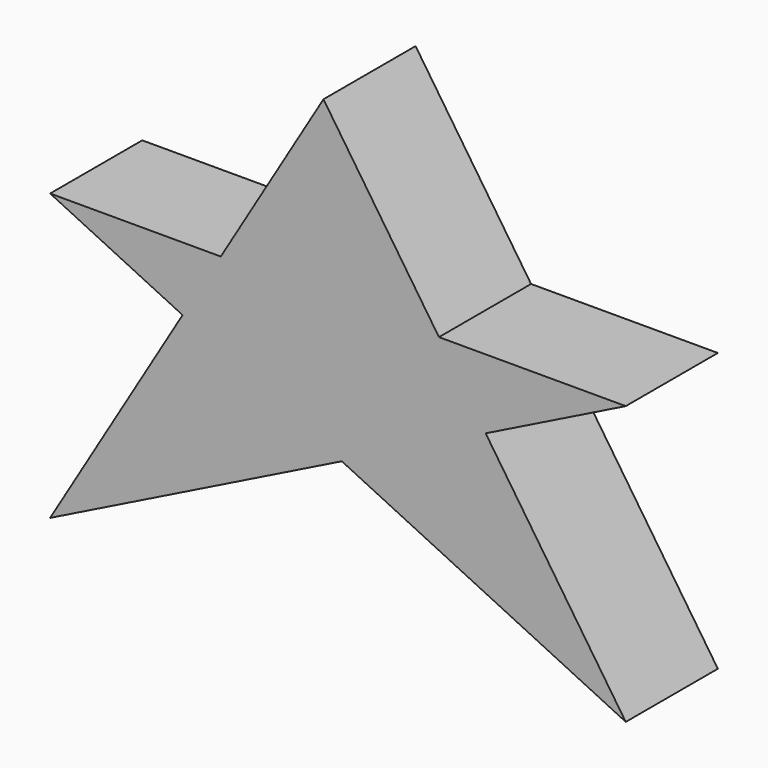
from build123d import *

# Parameters (mm, degrees)
F1_DEPTH = 2.54


with BuildPart() as f1:
    # F0 (on Front) → F1 (new body)
    with BuildSketch(Plane.XZ):
        Polygon((2.9218660327, 6.2551915915), (0, 1.3653693022), (6.4354260527, 4.5582497315), align=None)
        Polygon((0, 7.6663633808), (2.9218660327, 6.2551915915), (3.7650980918, 7.6663633808), align=None)
        Polygon((3.7650980918, 7.6663633808), (2.9218660327, 6.2551915915), (6.4354260527, 4.5582497315), (9.6090338884, 6.132807541), (8.5785970875, 7.6663633808), align=None)
        Polygon((9.6090338884, 6.132807541), (6.4354260527, 4.5582497315), (12.7, 1.5326524153), align=None)
        Polygon((6.0308207758, 11.4581119269), (3.7650980918, 7.6663633808), (8.5785970875, 7.6663633808), align=None)
        Polygon((8.5785970875, 7.6663633808), (9.6090338884, 6.132807541), (12.7, 7.6663633808), align=None)
    extrude(amount=F1_DEPTH)


solid = f1.part
